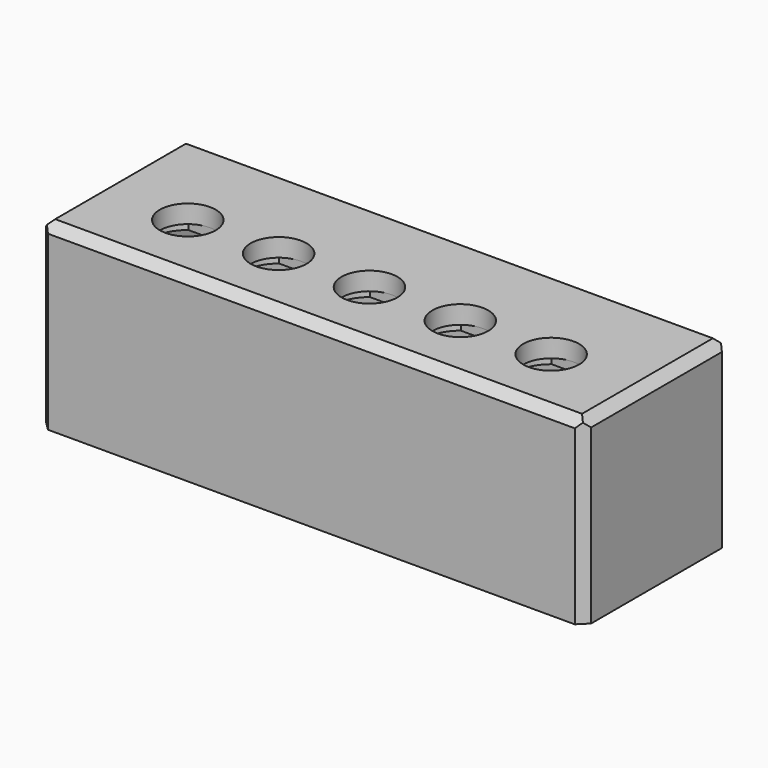
from build123d import *

# Parameters (mm, degrees)
SKETCH001_W            = 60
SKETCH001_H            = 20
PAD_DEPTH              = 20
SKETCH002_W            = 50
SKETCH002_H            = 17
POCKET_DEPTH           = 17
POCKET001_DEPTH        = 1
LINEARPATTERN_COUNT    = 5
LINEARPATTERN_PITCH    = 10
SKETCH004_R            = 3.075
POCKET002_DEPTH        = 2.001
LINEARPATTERN001_COUNT = 5
LINEARPATTERN001_PITCH = 10
CHAMFER_SIZE           = 1
CHAMFER001_SIZE        = 1


with BuildPart() as part:
    # Sketch001 → Pad (new body)
    with BuildSketch(Plane.XY):
        Rectangle(SKETCH001_W, SKETCH001_H)
    extrude(amount=PAD_DEPTH)

    # Sketch002 → Pocket (cut)
    with BuildSketch(Plane.XY):
        Rectangle(SKETCH002_W, SKETCH002_H)
    extrude(amount=POCKET_DEPTH, mode=Mode.SUBTRACT)

    # Sketch003 (on Face11 of Pocket) → Pocket001 (cut)
    with BuildSketch(Plane(origin=(0, 0, 17), x_dir=(1, 0, 0), z_dir=(0, 0, -1))):
        with BuildLine():
            ThreePointArc((-22.407381, 5.075), (-23.905267, 2), (-22.407381, -1.075))
            Line((-22.407381, -1.075), (-17.592619, -1.075))
            ThreePointArc((-17.592619, -1.075), (-16.094733, 2), (-17.592619, 5.075))
            Line((-22.407381, 5.075), (-17.592619, 5.075))
        make_face()
    pocket001 = extrude(amount=-POCKET001_DEPTH, mode=Mode.SUBTRACT)

    # LinearPattern: Pocket001 ×5
    with Locations(*[(i * LINEARPATTERN_PITCH, 0, 0) for i in range(1, LINEARPATTERN_COUNT)]):
        add(pocket001, mode=Mode.SUBTRACT)

    # Sketch004 (on Face16 of Pocket001) → Pocket002 (cut, through all)
    with BuildSketch(Plane(origin=(0, 0, 18), x_dir=(1, 0, 0), z_dir=(0, 0, -1))):
        with Locations((-20, 2)):
            Circle(SKETCH004_R)
    pocket002 = extrude(amount=-POCKET002_DEPTH, mode=Mode.SUBTRACT)

    # LinearPattern001: Pocket002 ×5
    with Locations(*[(i * LINEARPATTERN001_PITCH, 0, 0) for i in range(1, LINEARPATTERN001_COUNT)]):
        add(pocket002, mode=Mode.SUBTRACT)

    # Chamfer
    chamfer_edges = [part.edges().sort_by_distance(p)[0] for p in [
        (0, 10, 20),
        (-30, 0, 20),
        (0, -10, 20),
        (30, 0, 20),
    ]]
    chamfer(chamfer_edges, length=CHAMFER_SIZE)

    # Chamfer001
    chamfer001_edges = [part.edges().sort_by_distance(p)[0] for p in [
        (-30, -10, 9.5),
        (-30, 10, 9.5),
        (30, -10, 9.5),
        (30, 10, 9.5),
    ]]
    chamfer(chamfer001_edges, length=CHAMFER001_SIZE)


solid = part.part
